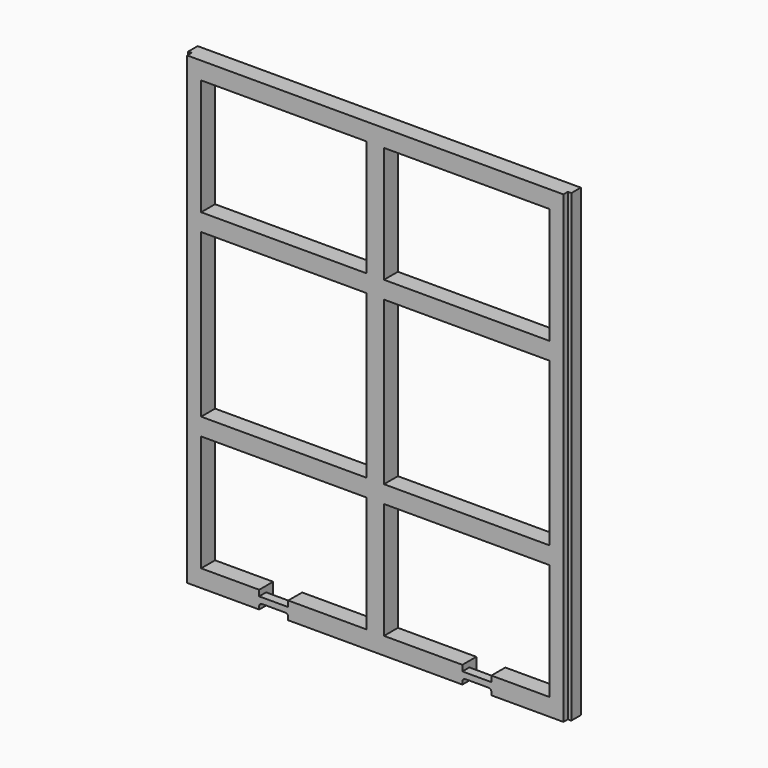
from build123d import *

# Parameters (mm, degrees)
F0_W      = 1320
F0_H      = 1600
F0_W_2    = 570
F0_H_2    = 400
F0_H_3    = 560
F1_DEPTH  = 60
F2_W      = 12
F2_H      = 1600
F3_DEPTH  = 19
F5_DEPTH  = 60
F6_W      = 100
F6_H      = 60
F7_DEPTH  = 30
F8_W      = 100
F8_H      = 20
F9_DEPTH  = 30
F10_W     = 100
F10_H     = 20
F11_DEPTH = 30


with BuildPart() as f1:
    # F0 (on Front) → F1 (new body)
    with BuildSketch(Plane.XZ):
        Rectangle(F0_W, F0_H)
        with Locations((-315, -540)):
            Rectangle(F0_W_2, F0_H_2, mode=Mode.SUBTRACT)
        with Locations((315, -540)):
            Rectangle(F0_W_2, F0_H_2, mode=Mode.SUBTRACT)
        with Locations((-315, 0)):
            Rectangle(F0_W_2, F0_H_3, mode=Mode.SUBTRACT)
        with Locations((-315, 540)):
            Rectangle(F0_W_2, F0_H_2, mode=Mode.SUBTRACT)
        with Locations((315, 0)):
            Rectangle(F0_W_2, F0_H_3, mode=Mode.SUBTRACT)
        with Locations((315, 540)):
            Rectangle(F0_W_2, F0_H_2, mode=Mode.SUBTRACT)
    extrude(amount=F1_DEPTH)

    # F2 (on face) → F3 (cut)
    with BuildSketch(Plane.XZ.offset(60)):
        with Locations((-654, 0)):
            Rectangle(F2_W, F2_H)
        with Locations((654, 0)):
            Rectangle(F2_W, F2_H)
    extrude(amount=-F3_DEPTH, mode=Mode.SUBTRACT)

    # F4 (on face) → F5 (cut)
    with BuildSketch(Plane.XZ.offset(60)):
        with BuildLine():
            Line((-400, -790), (-400, -800))
            Line((-400, -800), (-300, -800))
            Line((-300, -800), (-300, -790))
            ThreePointArc((-300, -790), (-302.928932, -782.928932), (-310, -780))
            Line((-310, -780), (-390, -780))
            ThreePointArc((-390, -780), (-397.071068, -782.928932), (-400, -790))
        make_face()
        with BuildLine():
            Line((300, -790), (300, -800))
            Line((300, -800), (400, -800))
            Line((400, -800), (400, -790))
            ThreePointArc((400, -790), (397.071068, -782.928932), (390, -780))
            Line((390, -780), (310, -780))
            ThreePointArc((310, -780), (302.928932, -782.928932), (300, -790))
        make_face()
    extrude(amount=-F5_DEPTH, mode=Mode.SUBTRACT)

    # F6 (on face) → F7 (cut)
    with BuildSketch(Plane(origin=(0, 0, 0), x_dir=(-1, 0, 0), z_dir=(0, 1, 0))):
        with Locations((-350, -770)):
            Rectangle(F6_W, F6_H)
        with Locations((350, -770)):
            Rectangle(F6_W, F6_H)
    extrude(amount=-F7_DEPTH, mode=Mode.SUBTRACT)

    # F8 (on face) → F9 (cut)
    with BuildSketch(Plane(origin=(0, -30, 0), x_dir=(-1, 0, 0), z_dir=(0, 1, 0))):
        with Locations((-350, -750)):
            Rectangle(F8_W, F8_H)
    extrude(amount=-F9_DEPTH, mode=Mode.SUBTRACT)

    # F10 (on face) → F11 (cut)
    with BuildSketch(Plane(origin=(0, -30, 0), x_dir=(-1, 0, 0), z_dir=(0, 1, 0))):
        with Locations((350, -750)):
            Rectangle(F10_W, F10_H)
    extrude(amount=-F11_DEPTH, mode=Mode.SUBTRACT)


solid = f1.part
